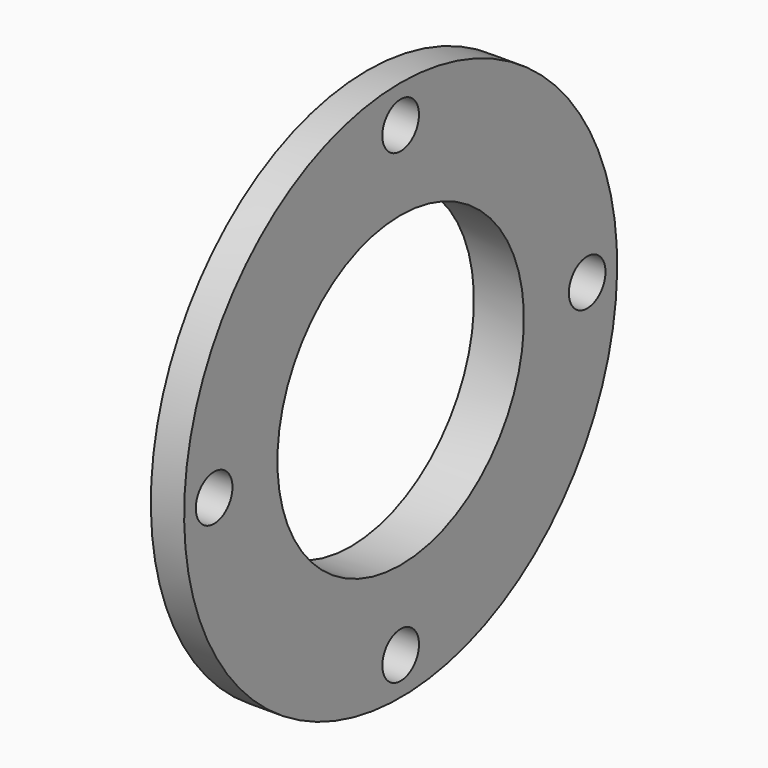
from build123d import *

# Parameters (mm, degrees)
F3_D = 5.5


with BuildPart() as f1:
    # F0 (on Front) → F1 (revolve)
    with BuildSketch(Plane.XZ):
        Polygon((4, 32.5), (0, 32.5), (0, 23.5), (-2, 23.5), (-2, 18.5), (4, 18.5), align=None)
    revolve(axis=Axis((1.6395361068, 0, 0), (1, 0, 0)))

    # F3 (through all)
    with Locations(Plane(origin=(0, 0, 0), x_dir=(0, -1, 0), z_dir=(-1, 0, 0))):
        with Locations((0, 28), (28, 0), (0, -28), (-28, 0)):
            Hole(F3_D / 2)


solid = f1.part
